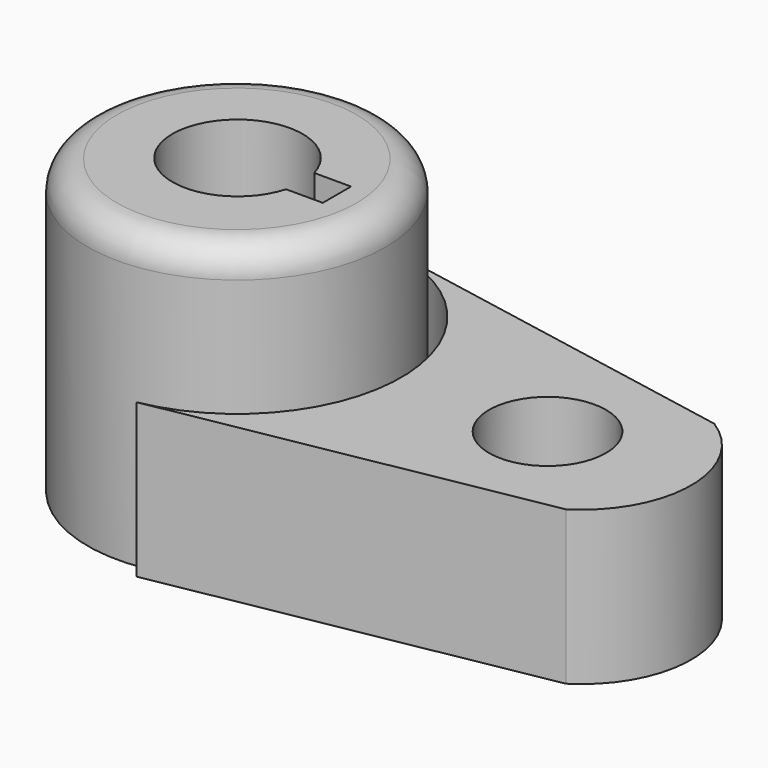
from build123d import *

# Parameters (mm, degrees)
F0_R     = 25.8767860188
F1_DEPTH = 50.8
F0_R_2   = 10.16
F2_DEPTH = 24.13
F3_R     = 5.08


with BuildPart() as f1:
    # F0 (on Top) → F1 (new body)
    with BuildSketch(Plane.XY):
        with Locations((-37.7442430894, 0)):
            Circle(F0_R)
        with BuildLine():
            ThreePointArc((-26.9576869905, -2.8002713807), (-49.1428781175, 0.2670810791), (-26.9576869905, 3.3344335388))
            Line((-26.9576869905, 3.3344335388), (-20.5678781175, 3.3344335388))
            Line((-20.5678781175, 3.3344335388), (-20.5678781175, -2.8002713807))
            Line((-20.5678781175, -2.8002713807), (-26.9576869905, -2.8002713807))
        make_face(mode=Mode.SUBTRACT)
    extrude(amount=F1_DEPTH)

    # F3
    f3_edges = [f1.edges().sort_by_distance(p)[0] for p in [
        (-63.621029, 0, 50.8),
    ]]
    fillet(f3_edges, radius=F3_R)


with BuildPart() as f1b:
    # F0 (on Top) → F1, piece 2 (new body)
    with BuildSketch(Plane.XY):
        with BuildLine():
            Line((-32.6440138166, -28.1161570341), (32.4653702854, -16.3054111227))
            ThreePointArc((32.4653702854, -16.3054111227), (41.3439072256, -0.1981506721), (32.4653702854, 15.9091097785))
            Line((32.4653702854, 15.9091097785), (-32.4783887587, 28.0856084707))
            ThreePointArc((-32.4783887587, 28.0856084707), (-9.1693671705, -0.0842093737), (-32.6440138166, -28.1161570341))
        make_face()
        with Locations((16.2307569106, 0)):
            Circle(F0_R_2, mode=Mode.SUBTRACT)
    extrude(amount=F1_DEPTH)

    # F2 (cut): a face of the model
    f2_faces = [f1b.faces().sort_by_distance(p)[0] for p in [
        (-8.2402398416, -0.0869474864, 50.8),
    ]]
    extrude(f2_faces, amount=-F2_DEPTH, mode=Mode.SUBTRACT)


solid = Compound([f1.part, f1b.part])
